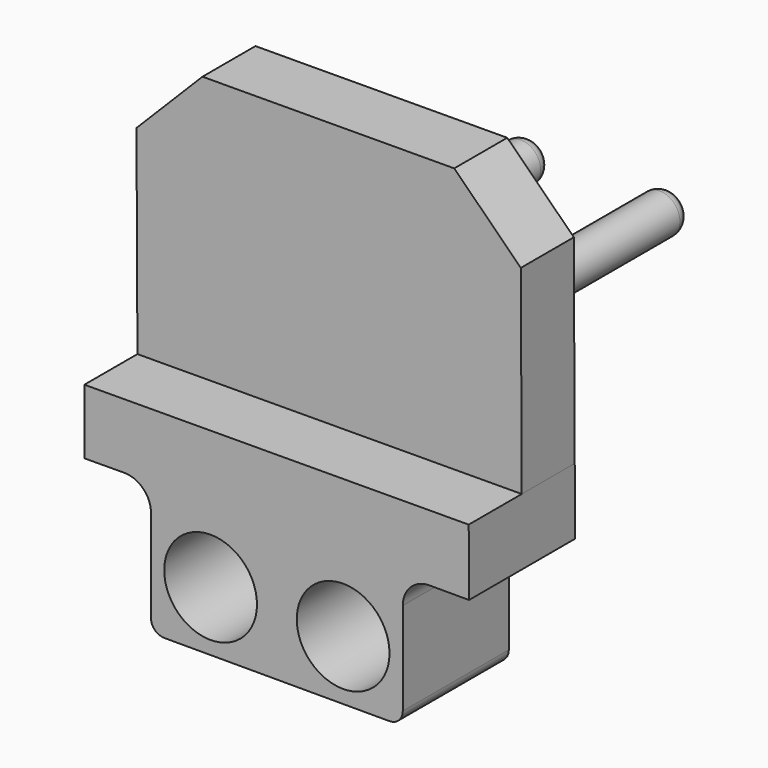
from build123d import *

# Parameters (mm, degrees)
F0_W     = 19
F0_H     = 10
F0_R     = 3.5
F1_DEPTH = 10
F2_W     = 28.999740434
F2_H     = 5
F3_DEPTH = 20
F4_R     = 1.5
F4_R_2   = 1.5122777257
F5_DEPTH = 25
F6_SIZE  = 5
F7_R     = 1
F8_R     = 1
F9_R     = 2


with BuildPart() as f1:
    # F0 (on Front) → F1 (new body)
    with BuildSketch(Plane.XZ):
        with Locations((9.5, 5)):
            Rectangle(F0_W, F0_H)
        with Locations((4.5, 4.5)):
            Circle(F0_R, mode=Mode.SUBTRACT)
        with Locations((14.5, 4.5)):
            Circle(F0_R, mode=Mode.SUBTRACT)
        Polygon((-4.999931565, 9.9738400144), (0, 10), (19, 10), (24, 10), (23.9767846348, 14.9999461044), (-5.0226432074, 14.8652981916), align=None)
    extrude(amount=F1_DEPTH)

    # F2 (on face) → F3 (join)
    with BuildSketch(Plane(origin=(-0.0691282, 0, 14.8882979715), x_dir=(0.9999892209, 0, 0.004643073), z_dir=(-0.004643073, 0, 0.9999892209))):
        with Locations((9.5463018144, -2.5)):
            Rectangle(F2_W, F2_H)
    extrude(amount=F3_DEPTH)

    # F4 (on face) → F5 (join)
    with BuildSketch(Plane.XZ.offset(5)):
        with Locations((4.6989777146, 21)):
            Circle(F4_R)
        with Locations((15.1989777146, 21)):
            Circle(F4_R_2)
    extrude(amount=-F5_DEPTH)

    # F6
    f6_edges = [f1.edges().sort_by_distance(p)[0] for p in [
        (-5.115505, -2.5, 34.865083),
        (23.883923, -2.5, 34.999731),
    ]]
    chamfer(f6_edges, length=F6_SIZE)

    # F7
    f7_edges = [f1.edges().sort_by_distance(p)[0] for p in [
        (3.198978, 20, 21),
        (13.6867, 20, 21),
    ]]
    fillet(f7_edges, radius=F7_R)

    # F8
    f8_edges = [f1.edges().sort_by_distance(p)[0] for p in [
        (19, -5, 0),
        (0, -5, 0),
    ]]
    fillet(f8_edges, radius=F8_R)

    # F9
    f9_edges = [f1.edges().sort_by_distance(p)[0] for p in [
        (19, -5, 10),
        (0, -5, 10),
    ]]
    fillet(f9_edges, radius=F9_R)


solid = f1.part
